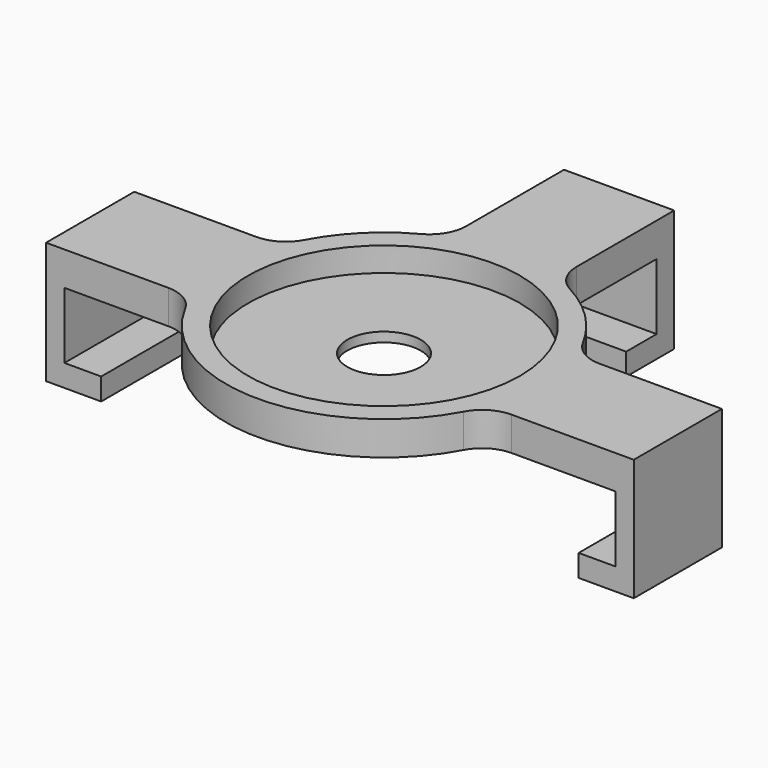
from build123d import *

# Parameters (mm, degrees)
F0_R     = 18.5
F0_R_2   = 5
F1_DEPTH = 1.3
F2_DEPTH = 4.6
F0_W     = 15
F0_H     = 3
F0_H_2   = 5.176528
F0_W_2   = 2.5
F0_H_3   = 15
F0_W_3   = 5
F3_DEPTH = 4.6
F4_DEPTH = 12
F5_DEPTH = 9
F6_R     = 5


with BuildPart() as f1:
    # F0 (on Top) → F1 (new body)
    with BuildSketch(Plane.XY):
        with BuildLine():
            ThreePointArc((20.149442, -7.5), (21.159667, -3.810315), (21.5, 0))
            ThreePointArc((21.5, 0), (21.159667, 3.810315), (20.149442, 7.5))
            ThreePointArc((20.149442, 7.5), (15.202796, 15.202796), (7.5, 20.149442))
            ThreePointArc((7.5, 20.149442), (0, 21.5), (-7.5, 20.149442))
            ThreePointArc((-7.5, 20.149442), (-15.202796, 15.202796), (-20.149442, 7.5))
            ThreePointArc((-20.149442, 7.5), (-21.5, 0), (-20.149442, -7.5))
            ThreePointArc((-20.149442, -7.5), (0, -21.5), (20.149442, -7.5))
        make_face()
        Circle(F0_R, mode=Mode.SUBTRACT)
        Circle(F0_R)
        Circle(F0_R_2, mode=Mode.SUBTRACT)
    extrude(amount=F1_DEPTH)

    # F0 (on Top) → F2 (join)
    with BuildSketch(Plane.XY):
        with BuildLine():
            ThreePointArc((20.149442, -7.5), (21.159667, -3.810315), (21.5, 0))
            ThreePointArc((21.5, 0), (21.159667, 3.810315), (20.149442, 7.5))
            ThreePointArc((20.149442, 7.5), (15.202796, 15.202796), (7.5, 20.149442))
            ThreePointArc((7.5, 20.149442), (0, 21.5), (-7.5, 20.149442))
            ThreePointArc((-7.5, 20.149442), (-15.202796, 15.202796), (-20.149442, 7.5))
            ThreePointArc((-20.149442, 7.5), (-21.5, 0), (-20.149442, -7.5))
            ThreePointArc((-20.149442, -7.5), (0, -21.5), (20.149442, -7.5))
        make_face()
        Circle(F0_R, mode=Mode.SUBTRACT)
    extrude(amount=F2_DEPTH)

    # F0 (on Top) → F3 (join)
    with BuildSketch(Plane.XY):
        with Locations((0, 38.507013)):
            Rectangle(F0_W, F0_H)
        with Locations((0, 34.418749)):
            Rectangle(F0_W, F0_H_2)
        with BuildLine():
            ThreePointArc((-7.5, 20.149442), (0, 21.5), (7.5, 20.149442))
            Line((7.5, 20.149442), (7.5, 31.830485))
            Line((7.5, 31.830485), (-7.5, 31.830485))
            Line((-7.5, 31.830485), (-7.5, 20.149442))
        make_face()
        with Locations((-38.75, 0)):
            Rectangle(F0_W_2, F0_H_3)
        with Locations((-35, 0)):
            Rectangle(F0_W_3, F0_H_3)
        with BuildLine():
            Line((-32.5, -7.5), (-20.149442, -7.5))
            ThreePointArc((-20.149442, -7.5), (-21.5, 0), (-20.149442, 7.5))
            Line((-20.149442, 7.5), (-32.5, 7.5))
            Line((-32.5, 7.5), (-32.5, -7.5))
        make_face()
        with BuildLine():
            ThreePointArc((20.149442, 7.5), (21.159667, 3.810315), (21.5, 0))
            ThreePointArc((21.5, 0), (21.159667, -3.810315), (20.149442, -7.5))
            Line((20.149442, -7.5), (32.5, -7.5))
            Line((32.5, -7.5), (32.5, 7.5))
            Line((32.5, 7.5), (20.149442, 7.5))
        make_face()
        with Locations((35, 0)):
            Rectangle(F0_W_3, F0_H_3)
        with Locations((38.75, 0)):
            Rectangle(F0_W_2, F0_H_3)
    extrude(amount=F3_DEPTH)

    # F0 (on Top) → F4 (join)
    with BuildSketch(Plane.XY):
        with Locations((0, 34.418749)):
            Rectangle(F0_W, F0_H_2)
        with Locations((0, 38.507013)):
            Rectangle(F0_W, F0_H)
        with Locations((38.75, 0)):
            Rectangle(F0_W_2, F0_H_3)
        with Locations((35, 0)):
            Rectangle(F0_W_3, F0_H_3)
        with Locations((-35, 0)):
            Rectangle(F0_W_3, F0_H_3)
        with Locations((-38.75, 0)):
            Rectangle(F0_W_2, F0_H_3)
    extrude(amount=-F4_DEPTH)

    # F0 (on Top) → F5 (cut)
    with BuildSketch(Plane.XY):
        with Locations((35, 0)):
            Rectangle(F0_W_3, F0_H_3)
        with Locations((-35, 0)):
            Rectangle(F0_W_3, F0_H_3)
        with Locations((0, 34.418749)):
            Rectangle(F0_W, F0_H_2)
    extrude(amount=-F5_DEPTH, mode=Mode.SUBTRACT)

    # F6
    f6_edges = [f1.edges().sort_by_distance(p)[0] for p in [
        (7.5, 20.149442, 2.3),
        (20.149442, -7.5, 2.3),
        (20.149442, 7.5, 2.3),
        (-7.5, 20.149442, 2.3),
        (-20.149442, 7.5, 2.3),
        (-20.149442, -7.5, 2.3),
    ]]
    fillet(f6_edges, radius=F6_R)


solid = f1.part
